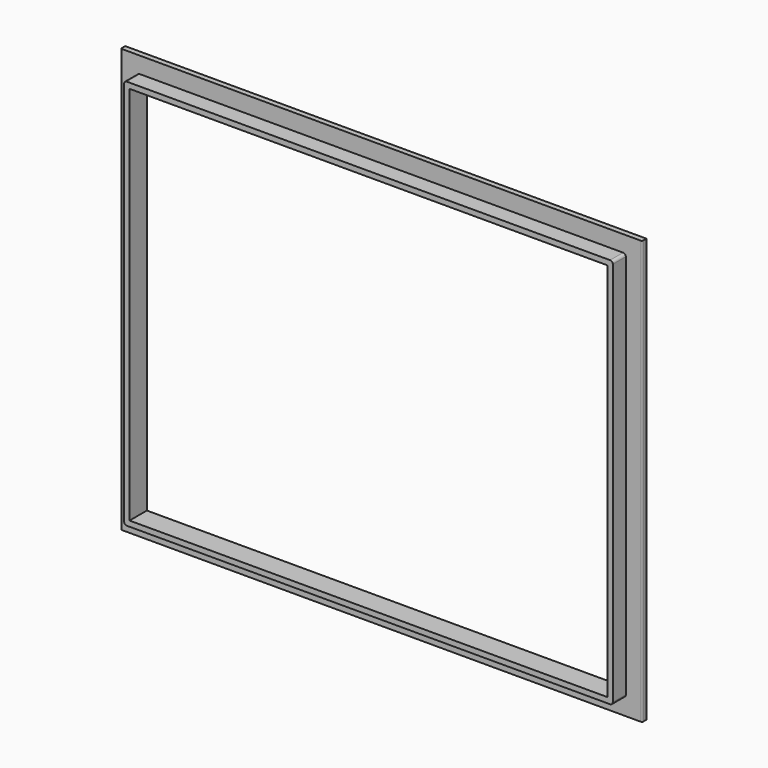
from build123d import *

# Parameters (mm, degrees)
F0_W     = 1117.6
F0_H     = 889
F1_DEPTH = 50.8
F0_W_2   = 1219.2
F0_H_2   = 990.6
F2_DEPTH = 12.7
F3_R     = 3.175


with BuildPart() as f1:
    # F0 (on Front) → F1 (new body)
    with BuildSketch(Plane.XZ):
        with BuildLine():
            Line((-565.15, -457.2), (565.15, -457.2))
            ThreePointArc((565.15, -457.2), (569.640128, -455.340128), (571.5, -450.85))
            Line((571.5, -450.85), (571.5, 450.85))
            ThreePointArc((571.5, 450.85), (569.640128, 455.340128), (565.15, 457.2))
            Line((565.15, 457.2), (-565.15, 457.2))
            ThreePointArc((-565.15, 457.2), (-569.640128, 455.340128), (-571.5, 450.85))
            Line((-571.5, 450.85), (-571.5, -450.85))
            ThreePointArc((-571.5, -450.85), (-569.640128, -455.340128), (-565.15, -457.2))
        make_face()
        Rectangle(F0_W, F0_H, mode=Mode.SUBTRACT)
    extrude(amount=F1_DEPTH)

    # F0 (on Front) → F2 (join)
    with BuildSketch(Plane.XZ):
        Rectangle(F0_W_2, F0_H_2)
        with BuildLine():
            ThreePointArc((571.5, -450.85), (569.640128, -455.340128), (565.15, -457.2))
            Line((565.15, -457.2), (-565.15, -457.2))
            ThreePointArc((-565.15, -457.2), (-569.640128, -455.340128), (-571.5, -450.85))
            Line((-571.5, -450.85), (-571.5, 450.85))
            ThreePointArc((-571.5, 450.85), (-569.640128, 455.340128), (-565.15, 457.2))
            Line((-565.15, 457.2), (565.15, 457.2))
            ThreePointArc((565.15, 457.2), (569.640128, 455.340128), (571.5, 450.85))
            Line((571.5, 450.85), (571.5, -450.85))
        make_face(mode=Mode.SUBTRACT)
    extrude(amount=F2_DEPTH)

    # F3
    f3_edges = [f1.edges().sort_by_distance(p)[0] for p in [
        (-609.6, -12.7, 0),
        (609.6, -12.7, 0),
    ]]
    fillet(f3_edges, radius=F3_R)


solid = f1.part
